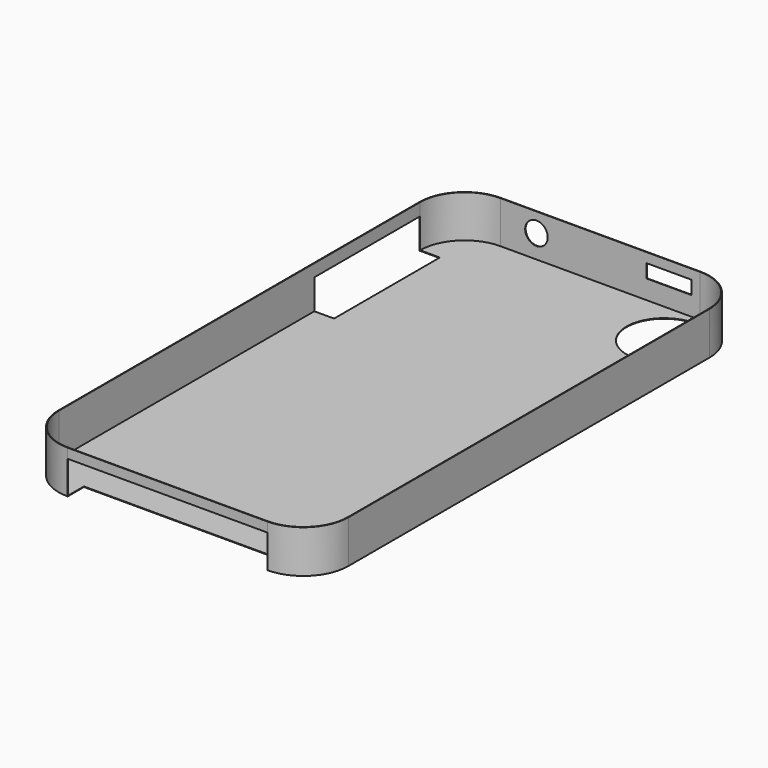
from build123d import *

# Parameters (mm, degrees)
F1_DEPTH  = 9.652
F2_T      = -0.127
F3_W      = 10.16
F3_H      = 3.048
F3_R      = 2.54
F4_DEPTH  = 4.572
F5_W      = 29.768799
F5_H      = 6.858
F6_DEPTH  = 4.572
F7_W      = 44.958
F7_H      = 7.4676
F8_DEPTH  = 4.572
F9_R      = 8.497621
F10_DEPTH = 25.4


with BuildPart() as f1:
    # F0 (on Top) → F1 (new body)
    with BuildSketch(Plane.XY):
        with BuildLine():
            Line((22.479, 60.96), (-22.479, 60.96))
            ThreePointArc((-22.479, 60.96), (-29.663205, 57.984205), (-32.639, 50.8))
            Line((-32.639, 50.8), (-32.639, -50.8))
            ThreePointArc((-32.639, -50.8), (-29.663205, -57.984205), (-22.479, -60.96))
            Line((-22.479, -60.96), (22.479, -60.96))
            ThreePointArc((22.479, -60.96), (29.663205, -57.984205), (32.639, -50.8))
            Line((32.639, -50.8), (32.639, 50.8))
            ThreePointArc((32.639, 50.8), (29.663205, 57.984205), (22.479, 60.96))
        make_face()
    extrude(amount=F1_DEPTH)

    # F2
    f2_openings = [f1.faces().sort_by_distance(p)[0] for p in [
        (0, 0, 9.652),
    ]]
    offset(amount=F2_T, openings=f2_openings)

    # F3 (on face) → F4 (cut)
    with BuildSketch(Plane.XZ.offset(-60.833)):
        with Locations((15.544799, 5.9436)):
            Rectangle(F3_W, F3_H)
        with Locations((-14.3256, 5.334001)):
            Circle(F3_R)
    extrude(amount=-F4_DEPTH, mode=Mode.SUBTRACT)

    # F5 (on face) → F6 (cut)
    with BuildSketch(Plane(origin=(-32.639, 0, 0), x_dir=(0, -1, 0), z_dir=(-1, 0, 0))):
        with Locations((-35.9156, 3.429)):
            Rectangle(F5_W, F5_H)
    extrude(amount=-F6_DEPTH, mode=Mode.SUBTRACT)

    # F7 (on face) → F8 (cut)
    with BuildSketch(Plane.XZ.offset(60.96)):
        with Locations((0, 3.7338)):
            Rectangle(F7_W, F7_H)
    extrude(amount=-F8_DEPTH, mode=Mode.SUBTRACT)

    # F9 (on face) → F10 (cut)
    with BuildSketch(Plane(origin=(0, 0, 0), x_dir=(1, 0, 0), z_dir=(0, 0, -1))):
        with Locations((22.479, -50.8)):
            Circle(F9_R)
    extrude(amount=-F10_DEPTH, mode=Mode.SUBTRACT)


solid = f1.part
